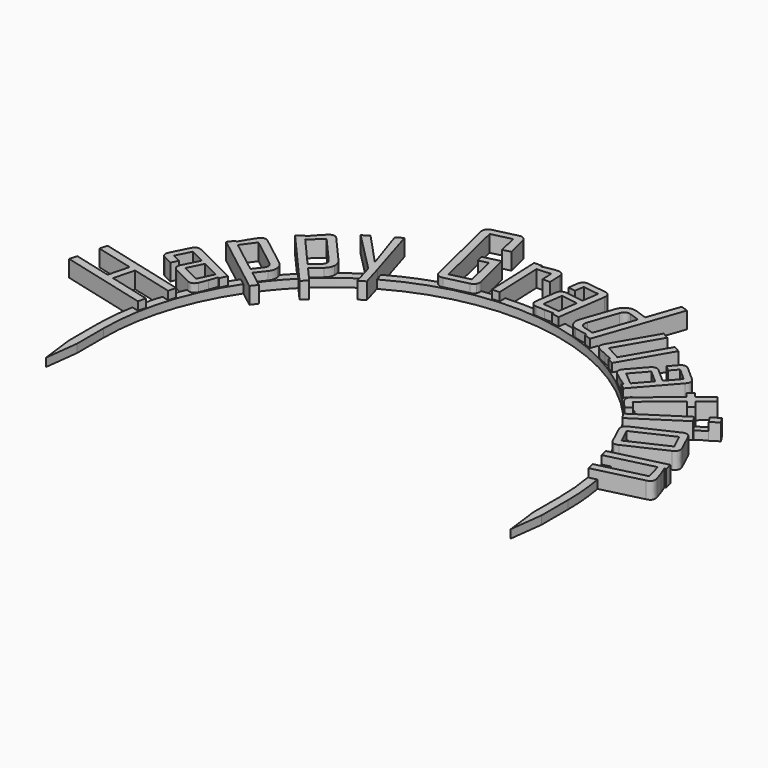
from build123d import *

# Parameters (mm, degrees)
PAD_DEPTH    = 1
PAD001_DEPTH = 2
PAD002_DEPTH = 2


with BuildPart() as part:
    # Sketch001 (on DatumPlane) → Pad (new body)
    with BuildSketch(Plane.XY):
        with BuildLine():
            ThreePointArc((27.5, 0), (0, 27.5), (-27.5, 0))
            Line((-27.5, 0), (-27.5, -4))
            Line((-27.5, -4), (-28, -8))
            Line((-28.5, -4), (-28, -8))
            Line((-28.5, 0), (-28.5, -4))
            ThreePointArc((23.58, 16.007298), (-8.373171, 27.242247), (-28.5, 0))
            Line((23.58, 16.007298), (30.422132, 20.445539))
            Line((30.422132, 20.445539), (30.857492, 19.774375))
            Line((24.020004, 15.339146), (30.857492, 19.774375))
            ThreePointArc((28.5, 0), (27.357084, 7.98999), (24.020004, 15.339146))
            Line((28.5, 0), (28.5, -4))
            Line((28.5, -4), (28, -8))
            Line((27.5, -4), (28, -8))
            Line((27.5, 0), (27.5, -4))
        make_face()
    extrude(amount=PAD_DEPTH)

    # Sketch → Pad001 (join)
    with BuildSketch(Plane(origin=(-105.3, 177.4, 0), x_dir=(1, 0, 0), z_dir=(0, 0, 1))):
        with BuildLine():
            add(Edge.make_bspline(
                [(79.205618, -168.173091), (78.965606, -169.100266)],
                knots=[0, 0, 0.957736, 0.957736], degree=1))
            add(Edge.make_bspline(
                [(78.965606, -169.100266), (73.949527, -167.80177)],
                knots=[0, 0, 5.181422, 5.181422], degree=1))
            add(Edge.make_bspline(
                [(73.949527, -167.80177), (73.298557, -170.316485)],
                knots=[0, 0, 2.597605, 2.597605], degree=1))
            add(Edge.make_bspline(
                [(73.298557, -170.316485), (78.314634, -171.614971)],
                knots=[0, 0, 5.181418, 5.181418], degree=1))
            add(Edge.make_bspline(
                [(78.314634, -171.614971), (78.074621, -172.542145)],
                knots=[0, 0, 0.957736, 0.957736], degree=1))
            add(Edge.make_bspline(
                [(78.074621, -172.542145), (67.635576, -169.83984)],
                knots=[0, 0, 10.783141, 10.783141], degree=1))
            add(Edge.make_bspline(
                [(67.635576, -169.83984), (67.875589, -168.912666)],
                knots=[0, 0, 0.957736, 0.957736], degree=1))
            add(Edge.make_bspline(
                [(67.875589, -168.912666), (72.464767, -170.100644)],
                knots=[0, 0, 4.740448, 4.740448], degree=1))
            add(Edge.make_bspline(
                [(72.464767, -170.100644), (73.115738, -167.585939)],
                knots=[0, 0, 2.597596, 2.597596], degree=1))
            add(Edge.make_bspline(
                [(73.115738, -167.585939), (68.52656, -166.397961)],
                knots=[0, 0, 4.740448, 4.740448], degree=1))
            add(Edge.make_bspline(
                [(68.52656, -166.397961), (68.766574, -165.470786)],
                knots=[0, 0, 0.957736, 0.957736], degree=1))
            add(Edge.make_bspline(
                [(68.766574, -165.470786), (79.205618, -168.173091)],
                knots=[0, 0, 10.78314, 10.78314], degree=1))
        make_face()
        with BuildLine():
            add(Edge.make_bspline(
                [(81.504501, -163.2752), (81.100804, -164.082503)],
                knots=[0, 0, 0.902612, 0.902612], degree=1))
            add(Edge.make_bspline(
                [(81.100804, -164.082503), (80.934409, -163.999254)],
                knots=[0, 0, 0.186059, 0.186059], degree=1))
            add(Edge.make_bspline(
                [(80.934409, -163.999254), (80.758748, -164.520008), (80.576924, -165.037664)],
                knots=[0, 0, 0, 1, 1, 1], degree=2))
            add(Edge.make_bspline(
                [(80.576924, -165.037664), (80.348874, -165.678582), (80.167056, -166.042184)],
                knots=[0, 0, 0, 1, 1, 1], degree=2))
            add(Edge.make_bspline(
                [(80.167056, -166.042184), (79.831157, -166.713909), (79.165592, -166.381091)],
                knots=[0, 0, 0, 1, 1, 1], degree=2))
            add(Edge.make_bspline(
                [(79.165592, -166.381091), (76.977856, -165.287108)],
                knots=[0, 0, 2.446015, 2.446015], degree=1))
            add(Edge.make_bspline(
                [(76.977856, -165.287108), (76.287641, -164.941958), (76.635867, -164.245583)],
                knots=[0, 0, 0, 1, 1, 1], degree=2))
            add(Edge.make_bspline(
                [(76.635867, -164.245583), (77.600424, -162.316676)],
                knots=[0, 0, 2.156629, 2.156629], degree=1))
            add(Edge.make_bspline(
                [(77.600424, -162.316676), (75.794771, -161.413756)],
                knots=[0, 0, 2.018822, 2.018822], degree=1))
            add(Edge.make_bspline(
                [(75.794771, -161.413756), (74.913419, -163.176266)],
                knots=[0, 0, 1.97059, 1.97059], degree=1))
            add(Edge.make_bspline(
                [(74.913419, -163.176266), (75.936417, -163.687824)],
                knots=[0, 0, 1.143773, 1.143773], degree=1))
            add(Edge.make_bspline(
                [(75.936417, -163.687824), (75.538884, -164.482802)],
                knots=[0, 0, 0.888832, 0.888832], degree=1))
            add(Edge.make_bspline(
                [(75.538884, -164.482802), (74.528211, -163.97741)],
                knots=[0, 0, 1.129991, 1.129991], degree=1))
            add(Edge.make_bspline(
                [(74.528211, -163.97741), (73.831833, -163.629182), (74.176979, -162.938964)],
                knots=[0, 0, 0, 1, 1, 1], degree=2))
            add(Edge.make_bspline(
                [(74.176979, -162.938964), (75.163106, -160.966924)],
                knots=[0, 0, 2.204856, 2.204856], degree=1))
            add(Edge.make_bspline(
                [(75.163106, -160.966924), (75.508251, -160.276707), (76.204629, -160.624935)],
                knots=[0, 0, 0, 1, 1, 1], degree=2))
            add(Edge.make_bspline(
                [(76.204629, -160.624935), (81.504501, -163.2752)],
                knots=[0, 0, 5.925584, 5.925584], degree=1))
        make_face()
        with BuildLine():
            add(Edge.make_bspline(
                [(80.361288, -163.697295), (78.241341, -162.637211)],
                knots=[0, 0, 2.370222, 2.370222], degree=1))
            add(Edge.make_bspline(
                [(78.241341, -162.637211), (77.326091, -164.467515)],
                knots=[0, 0, 2.046386, 2.046386], degree=1))
            add(Edge.make_bspline(
                [(77.326091, -164.467515), (79.483013, -165.546088)],
                knots=[0, 0, 2.411563, 2.411563], degree=1))
            add(Edge.make_bspline(
                [(79.483013, -165.546088), (80.361288, -163.697295)],
                knots=[0, 0, 2.046803, 2.046803], degree=1))
        make_face(mode=Mode.SUBTRACT)
        with BuildLine():
            add(Edge.make_bspline(
                [(83.522183, -158.066009), (84.012992, -158.445031), (84.091732, -159.019452)],
                knots=[0, 0, 0, 1, 1, 1], degree=2))
            add(Edge.make_bspline(
                [(84.091732, -159.019452), (84.165022, -159.589672), (83.790218, -160.075027)],
                knots=[0, 0, 0, 1, 1, 1], degree=2))
            add(Edge.make_bspline(
                [(83.790218, -160.075027), (82.86795, -161.269331)],
                knots=[0, 0, 1.508953, 1.508953], degree=1))
            add(Edge.make_bspline(
                [(82.86795, -161.269331), (84.880266, -162.823288)],
                knots=[0, 0, 2.542479, 2.542479], degree=1))
            add(Edge.make_bspline(
                [(84.880266, -162.823288), (84.320167, -163.548595)],
                knots=[0, 0, 0.916396, 0.916396], degree=1))
            add(Edge.make_bspline(
                [(84.320167, -163.548595), (77.001665, -157.897073)],
                knots=[0, 0, 9.24663, 9.24663], degree=1))
            add(Edge.make_bspline(
                [(77.001665, -157.897073), (77.561763, -157.171766)],
                knots=[0, 0, 0.916395, 0.916395], degree=1))
            add(Edge.make_bspline(
                [(77.561763, -157.171766), (77.709006, -157.285473)],
                knots=[0, 0, 0.186038, 0.186038], degree=1))
            add(Edge.make_bspline(
                [(77.709006, -157.285473), (77.987163, -156.81254), (78.265318, -156.339607)],
                knots=[0, 0, 0, 1, 1, 1], degree=2))
            add(Edge.make_bspline(
                [(78.265318, -156.339607), (78.61555, -155.739509), (78.855592, -155.428667)],
                knots=[0, 0, 0, 1, 1, 1], degree=2))
            add(Edge.make_bspline(
                [(78.855592, -155.428667), (79.323043, -154.823341), (79.917464, -155.282343)],
                knots=[0, 0, 0, 1, 1, 1], degree=2))
            add(Edge.make_bspline(
                [(79.917464, -155.282343), (83.522183, -158.066009)],
                knots=[0, 0, 4.554425, 4.554425], degree=1))
        make_face()
        with BuildLine():
            add(Edge.make_bspline(
                [(82.853016, -158.707095), (79.444622, -156.075046)],
                knots=[0, 0, 4.306371, 4.306371], degree=1))
            add(Edge.make_bspline(
                [(79.444622, -156.075046), (78.254349, -157.706596)],
                knots=[0, 0, 2.01958, 2.01958], degree=1))
            add(Edge.make_bspline(
                [(78.254349, -157.706596), (82.229899, -160.776611)],
                knots=[0, 0, 5.022947, 5.022947], degree=1))
            add(Edge.make_bspline(
                [(82.229899, -160.776611), (83.004772, -159.773177)],
                knots=[0, 0, 1.267796, 1.267796], degree=1))
            add(Edge.make_bspline(
                [(83.004772, -159.773177), (83.4638, -159.17876), (82.853019, -158.707095)],
                knots=[0, 0, 0, 1, 1, 1], degree=2))
            add(Edge.make_bspline(
                [(82.853019, -158.707095), (82.853016, -158.707095)],
                knots=[0, 0, 3e-06, 3e-06], degree=1))
        make_face(mode=Mode.SUBTRACT)
        with BuildLine():
            add(Edge.make_bspline(
                [(87.621662, -154.249377), (88.030668, -154.715484), (87.997779, -155.294355)],
                knots=[0, 0, 0, 1, 1, 1], degree=2))
            add(Edge.make_bspline(
                [(87.997779, -155.294355), (87.960343, -155.868036), (87.499413, -156.272504)],
                knots=[0, 0, 0, 1, 1, 1], degree=2))
            add(Edge.make_bspline(
                [(87.499413, -156.272504), (86.365211, -157.267745)],
                knots=[0, 0, 1.508946, 1.508946], degree=1))
            add(Edge.make_bspline(
                [(86.365211, -157.267745), (88.042138, -159.178804)],
                knots=[0, 0, 2.542485, 2.542485], degree=1))
            add(Edge.make_bspline(
                [(88.042138, -159.178804), (87.35333, -159.783217)],
                knots=[0, 0, 0.91639, 0.91639], degree=1))
            add(Edge.make_bspline(
                [(87.35333, -159.783217), (81.254592, -152.833006)],
                knots=[0, 0, 9.246623, 9.246623], degree=1))
            add(Edge.make_bspline(
                [(81.254592, -152.833006), (81.943399, -152.228583)],
                knots=[0, 0, 0.916396, 0.916396], degree=1))
            add(Edge.make_bspline(
                [(81.943399, -152.228583), (82.066101, -152.368412)],
                knots=[0, 0, 0.186032, 0.186032], degree=1))
            add(Edge.make_bspline(
                [(82.066101, -152.368412), (82.429797, -151.95761), (82.793492, -151.546798)],
                knots=[0, 0, 0, 1, 1, 1], degree=2))
            add(Edge.make_bspline(
                [(82.793492, -151.546798), (83.252314, -151.025019), (83.547517, -150.765989)],
                knots=[0, 0, 0, 1, 1, 1], degree=2))
            add(Edge.make_bspline(
                [(83.547517, -150.765989), (84.122387, -150.261549), (84.617738, -150.826056)],
                knots=[0, 0, 0, 1, 1, 1], degree=2))
            add(Edge.make_bspline(
                [(84.617738, -150.826056), (87.621662, -154.249377)],
                knots=[0, 0, 4.554414, 4.554414], degree=1))
        make_face()
        with BuildLine():
            add(Edge.make_bspline(
                [(86.841965, -154.75021), (84.001643, -151.513338)],
                knots=[0, 0, 4.306363, 4.306363], degree=1))
            add(Edge.make_bspline(
                [(84.001643, -151.513338), (82.520552, -152.886319)],
                knots=[0, 0, 2.019581, 2.019581], degree=1))
            add(Edge.make_bspline(
                [(82.520552, -152.886319), (85.833504, -156.661808)],
                knots=[0, 0, 5.022944, 5.022944], degree=1))
            add(Edge.make_bspline(
                [(85.833504, -156.661808), (86.786439, -155.825614)],
                knots=[0, 0, 1.267796, 1.267796], degree=1))
            add(Edge.make_bspline(
                [(86.786439, -155.825614), (87.35095, -155.330267), (86.841965, -154.75021)],
                knots=[0, 0, 0, 1, 1, 1], degree=2))
        make_face(mode=Mode.SUBTRACT)
        with BuildLine():
            add(Edge.make_bspline(
                [(89.605663, -146.790632), (91.611702, -153.33165)],
                knots=[0, 0, 6.841718, 6.841718], degree=1))
            add(Edge.make_bspline(
                [(91.611702, -153.33165), (92.362329, -155.906682)],
                knots=[0, 0, 2.682206, 2.682206], degree=1))
            add(Edge.make_bspline(
                [(92.362329, -155.906682), (91.586057, -156.367241)],
                knots=[0, 0, 0.902615, 0.902615], degree=1))
            add(Edge.make_bspline(
                [(91.586057, -156.367241), (90.841356, -153.788695)],
                knots=[0, 0, 2.68393, 2.68393], degree=1))
            add(Edge.make_bspline(
                [(90.841356, -153.788695), (86.026515, -148.914122)],
                knots=[0, 0, 6.851581, 6.851581], degree=1))
            add(Edge.make_bspline(
                [(86.026515, -148.914122), (86.838342, -148.432472)],
                knots=[0, 0, 0.943954, 0.943954], degree=1))
            add(Edge.make_bspline(
                [(86.838342, -148.432472), (90.515051, -152.387981)],
                knots=[0, 0, 5.400392, 5.400392], degree=1))
            add(Edge.make_bspline(
                [(90.515051, -152.387981), (88.81754, -147.258222)],
                knots=[0, 0, 5.40333, 5.40333], degree=1))
            add(Edge.make_bspline(
                [(88.81754, -147.258222), (89.605663, -146.790632)],
                knots=[0, 0, 0.916394, 0.916394], degree=1))
        make_face()
    extrude(amount=PAD001_DEPTH)

    # Sketch002 → Pad002 (join)
    with BuildSketch(Plane(origin=(-105.3, 177.4, 0), x_dir=(1, 0, 0), z_dir=(0, 0, 1))):
        with BuildLine():
            add(Edge.make_bspline(
                [(100.802118, -149.271415), (100.880797, -149.599738), (100.722877, -149.857235)],
                knots=[0, 0, 0, 1, 1, 1], degree=2))
            add(Edge.make_bspline(
                [(100.722877, -149.857235), (100.564956, -150.114732), (100.236633, -150.193421)],
                knots=[0, 0, 0, 1, 1, 1], degree=2))
            add(Edge.make_bspline(
                [(100.236633, -150.193421), (97.482763, -150.853471)],
                knots=[0, 0, 2.831866, 2.831866], degree=1))
            add(Edge.make_bspline(
                [(97.482763, -150.853471), (97.154441, -150.93215), (96.896945, -150.77424)],
                knots=[0, 0, 0, 1, 1, 1], degree=2))
            add(Edge.make_bspline(
                [(96.896945, -150.77424), (96.639447, -150.616309), (96.560755, -150.287986)],
                knots=[0, 0, 0, 1, 1, 1], degree=2))
            add(Edge.make_bspline(
                [(96.560755, -150.287986), (94.403942, -141.289333)],
                knots=[0, 0, 9.253518, 9.253518], degree=1))
            add(Edge.make_bspline(
                [(94.403942, -141.289333), (94.325254, -140.96102), (94.483178, -140.703523)],
                knots=[0, 0, 0, 1, 1, 1], degree=2))
            add(Edge.make_bspline(
                [(94.483178, -140.703523), (94.641106, -140.446016), (94.969426, -140.367327)],
                knots=[0, 0, 0, 1, 1, 1], degree=2))
            add(Edge.make_bspline(
                [(94.969426, -140.367327), (97.7233, -139.707277)],
                knots=[0, 0, 2.831869, 2.831869], degree=1))
            add(Edge.make_bspline(
                [(97.7233, -139.707277), (98.051613, -139.628598), (98.309109, -139.786509)],
                knots=[0, 0, 0, 1, 1, 1], degree=2))
            add(Edge.make_bspline(
                [(98.309109, -139.786509), (98.566616, -139.944439), (98.645306, -140.272762)],
                knots=[0, 0, 0, 1, 1, 1], degree=2))
            add(Edge.make_bspline(
                [(98.645306, -140.272762), (99.229872, -142.711713)],
                knots=[0, 0, 2.508027, 2.508027], degree=1))
            add(Edge.make_bspline(
                [(99.229872, -142.711713), (98.291821, -142.936541)],
                knots=[0, 0, 0.964618, 0.964618], degree=1))
            add(Edge.make_bspline(
                [(98.291821, -142.936541), (97.726519, -140.577996)],
                knots=[0, 0, 2.425345, 2.425345], degree=1))
            add(Edge.make_bspline(
                [(97.726519, -140.577996), (95.354572, -141.146513)],
                knots=[0, 0, 2.439129, 2.439129], degree=1))
            add(Edge.make_bspline(
                [(95.354572, -141.146513), (97.472841, -149.984355)],
                knots=[0, 0, 9.088152, 9.088152], degree=1))
            add(Edge.make_bspline(
                [(97.472841, -149.984355), (99.844784, -149.415848)],
                knots=[0, 0, 2.439121, 2.439121], degree=1))
            add(Edge.make_bspline(
                [(99.844784, -149.415848), (98.975964, -145.790919)],
                knots=[0, 0, 3.727594, 3.727594], degree=1))
            add(Edge.make_bspline(
                [(98.975964, -145.790919), (97.856993, -146.059115)],
                knots=[0, 0, 1.150663, 1.150663], degree=1))
            add(Edge.make_bspline(
                [(97.856993, -146.059115), (97.664272, -145.255068)],
                knots=[0, 0, 0.826821, 0.826821], degree=1))
            add(Edge.make_bspline(
                [(97.664272, -145.255068), (99.721302, -144.762034)],
                knots=[0, 0, 2.115292, 2.115292], degree=1))
            add(Edge.make_bspline(
                [(99.721302, -144.762034), (100.802118, -149.271415)],
                knots=[0, 0, 4.637098, 4.637098], degree=1))
        make_face()
        with BuildLine():
            add(Edge.make_bspline(
                [(105.911977, -145.222955), (105.010037, -145.257891)],
                knots=[0, 0, 0.902616, 0.902616], degree=1))
            add(Edge.make_bspline(
                [(105.010037, -145.257891), (104.956452, -143.874003)],
                knots=[0, 0, 1.384925, 1.384925], degree=1))
            add(Edge.make_bspline(
                [(104.956452, -143.874003), (103.271744, -143.994339)],
                knots=[0, 0, 1.689001, 1.689001], degree=1))
            add(Edge.make_bspline(
                [(103.271744, -143.994339), (103.497225, -149.819077)],
                knots=[0, 0, 5.8291, 5.8291], degree=1))
            add(Edge.make_bspline(
                [(103.497225, -149.819077), (102.581514, -149.854561)],
                knots=[0, 0, 0.916399, 0.916399], degree=1))
            add(Edge.make_bspline(
                [(102.581514, -149.854561), (102.32219, -143.155428)],
                knots=[0, 0, 6.70415, 6.70415], degree=1))
            add(Edge.make_bspline(
                [(102.32219, -143.155428), (103.237902, -143.119944)],
                knots=[0, 0, 0.916399, 0.916399], degree=1))
            add(Edge.make_bspline(
                [(103.237902, -143.119944), (103.245387, -143.305816)],
                knots=[0, 0, 0.186022, 0.186022], degree=1))
            add(Edge.make_bspline(
                [(103.245387, -143.305816), (103.69713, -143.219344), (104.155496, -143.125777)],
                knots=[0, 0, 0, 1, 1, 1], degree=2))
            add(Edge.make_bspline(
                [(104.155496, -143.125777), (104.703102, -143.021872), (105.068005, -143.007674)],
                knots=[0, 0, 0, 1, 1, 1], degree=2))
            add(Edge.make_bspline(
                [(105.068005, -143.007674), (105.825363, -142.978382), (105.854409, -143.728826)],
                knots=[0, 0, 0, 1, 1, 1], degree=2))
            add(Edge.make_bspline(
                [(105.854409, -143.728826), (105.911977, -145.222955)],
                knots=[0, 0, 1.495237, 1.495237], degree=1))
        make_face()
        with BuildLine():
            add(Edge.make_bspline(
                [(111.009488, -150.317741), (110.115883, -150.190552)],
                knots=[0, 0, 0.902611, 0.902611], degree=1))
            add(Edge.make_bspline(
                [(110.115883, -150.190552), (110.142056, -150.006377)],
                knots=[0, 0, 0.186025, 0.186025], degree=1))
            add(Edge.make_bspline(
                [(110.142056, -150.006377), (109.592481, -150.00468), (109.043886, -149.996218)],
                knots=[0, 0, 0, 1, 1, 1], degree=2))
            add(Edge.make_bspline(
                [(109.043886, -149.996218), (108.363735, -149.982941), (107.961265, -149.925636)],
                knots=[0, 0, 0, 1, 1, 1], degree=2))
            add(Edge.make_bspline(
                [(107.961265, -149.925636), (107.217736, -149.8198), (107.322596, -149.083086)],
                knots=[0, 0, 0, 1, 1, 1], degree=2))
            add(Edge.make_bspline(
                [(107.322596, -149.083086), (107.667282, -146.661478)],
                knots=[0, 0, 2.446016, 2.446016], degree=1))
            add(Edge.make_bspline(
                [(107.667282, -146.661478), (107.776026, -145.897477), (108.546852, -146.007196)],
                knots=[0, 0, 0, 1, 1, 1], degree=2))
            add(Edge.make_bspline(
                [(108.546852, -146.007196), (110.681956, -146.3111)],
                knots=[0, 0, 2.156623, 2.156623], degree=1))
            add(Edge.make_bspline(
                [(110.681956, -146.3111), (110.966449, -144.312423)],
                knots=[0, 0, 2.018823, 2.018823], degree=1))
            add(Edge.make_bspline(
                [(110.966449, -144.312423), (109.015514, -144.034733)],
                knots=[0, 0, 1.970599, 1.970599], degree=1))
            add(Edge.make_bspline(
                [(109.015514, -144.034733), (108.854335, -145.167092)],
                knots=[0, 0, 1.143772, 1.143772], degree=1))
            add(Edge.make_bspline(
                [(108.854335, -145.167092), (107.974368, -145.041836)],
                knots=[0, 0, 0.888836, 0.888836], degree=1))
            add(Edge.make_bspline(
                [(107.974368, -145.041836), (108.133606, -143.923126)],
                knots=[0, 0, 1.129986, 1.129986], degree=1))
            add(Edge.make_bspline(
                [(108.133606, -143.923126), (108.243325, -143.152299), (109.007327, -143.261043)],
                knots=[0, 0, 0, 1, 1, 1], degree=2))
            add(Edge.make_bspline(
                [(109.007327, -143.261043), (111.190181, -143.571749)],
                knots=[0, 0, 2.204857, 2.204857], degree=1))
            add(Edge.make_bspline(
                [(111.190181, -143.571749), (111.954183, -143.680493), (111.844463, -144.451319)],
                knots=[0, 0, 0, 1, 1, 1], degree=2))
            add(Edge.make_bspline(
                [(111.844463, -144.451319), (111.009488, -150.317741)],
                knots=[0, 0, 5.925545, 5.925545], degree=1))
        make_face()
        with BuildLine():
            add(Edge.make_bspline(
                [(110.24701, -149.367103), (110.58102, -147.020523)],
                knots=[0, 0, 2.370232, 2.370232], degree=1))
            add(Edge.make_bspline(
                [(110.58102, -147.020523), (108.555056, -146.732156)],
                knots=[0, 0, 2.046383, 2.046383], degree=1))
            add(Edge.make_bspline(
                [(108.555056, -146.732156), (108.21522, -149.119652)],
                knots=[0, 0, 2.411562, 2.411562], degree=1))
            add(Edge.make_bspline(
                [(108.21522, -149.119652), (110.24701, -149.367103)],
                knots=[0, 0, 2.046803, 2.046803], degree=1))
        make_face(mode=Mode.SUBTRACT)
        with BuildLine():
            add(Edge.make_bspline(
                [(116.080383, -151.916196), (115.220945, -151.618616)],
                knots=[0, 0, 0.909499, 0.909499], degree=1))
            add(Edge.make_bspline(
                [(115.220945, -151.618616), (115.281834, -151.442812)],
                knots=[0, 0, 0.186049, 0.186049], degree=1))
            add(Edge.make_bspline(
                [(115.281834, -151.442812), (113.814104, -151.175238), (113.664353, -151.123394)],
                knots=[0, 0, 0, 1, 1, 1], degree=2))
            add(Edge.make_bspline(
                [(113.664353, -151.123394), (113.110918, -150.93177), (112.900854, -150.443419)],
                knots=[0, 0, 0, 1, 1, 1], degree=2))
            add(Edge.make_bspline(
                [(112.900854, -150.443419), (112.693035, -149.948559), (112.886876, -149.388617)],
                knots=[0, 0, 0, 1, 1, 1], degree=2))
            add(Edge.make_bspline(
                [(112.886876, -149.388617), (114.169623, -145.683883)],
                knots=[0, 0, 3.920522, 3.920522], degree=1))
            add(Edge.make_bspline(
                [(114.169623, -145.683883), (114.372509, -145.097899), (114.889664, -144.846766)],
                knots=[0, 0, 0, 1, 1, 1], degree=2))
            add(Edge.make_bspline(
                [(114.889664, -144.846766), (115.409074, -144.589113), (115.988551, -144.789773)],
                knots=[0, 0, 0, 1, 1, 1], degree=2))
            add(Edge.make_bspline(
                [(115.988551, -144.789773), (117.414454, -145.283479)],
                knots=[0, 0, 1.508955, 1.508955], degree=1))
            add(Edge.make_bspline(
                [(117.414454, -145.283479), (118.749035, -141.428996)],
                knots=[0, 0, 4.078989, 4.078989], degree=1))
            add(Edge.make_bspline(
                [(118.749035, -141.428996), (119.608483, -141.726576)],
                knots=[0, 0, 0.909508, 0.909508], degree=1))
            add(Edge.make_bspline(
                [(119.608483, -141.726576), (116.080383, -151.916196)],
                knots=[0, 0, 10.783129, 10.783129], degree=1))
        make_face()
        with BuildLine():
            add(Edge.make_bspline(
                [(115.493715, -150.83079), (117.150687, -146.045247)],
                knots=[0, 0, 5.064284, 5.064284], degree=1))
            add(Edge.make_bspline(
                [(117.150687, -146.045247), (115.952676, -145.630439)],
                knots=[0, 0, 1.267791, 1.267791], degree=1))
            add(Edge.make_bspline(
                [(115.952676, -145.630439), (115.23647, -145.382458), (114.981719, -146.118195)],
                knots=[0, 0, 0, 1, 1, 1], degree=2))
            add(Edge.make_bspline(
                [(114.981719, -146.118195), (113.809449, -149.503885)],
                knots=[0, 0, 3.582891, 3.582891], degree=1))
            add(Edge.make_bspline(
                [(113.809449, -149.503885), (113.556955, -150.233111), (114.273162, -150.481093)],
                knots=[0, 0, 0, 1, 1, 1], degree=2))
            add(Edge.make_bspline(
                [(114.273162, -150.481093), (114.442444, -150.539717), (115.493715, -150.83079)],
                knots=[0, 0, 0, 1, 1, 1], degree=2))
        make_face(mode=Mode.SUBTRACT)
        with BuildLine():
            add(Edge.make_bspline(
                [(120.7756, -154.483304), (119.996031, -154.028365)],
                knots=[0, 0, 0.902605, 0.902605], degree=1))
            add(Edge.make_bspline(
                [(119.996031, -154.028365), (120.089802, -153.867689)],
                knots=[0, 0, 0.186037, 0.186037], degree=1))
            add(Edge.make_bspline(
                [(120.089802, -153.867689), (119.575517, -153.655317), (119.070668, -153.440462)],
                knots=[0, 0, 0, 1, 1, 1], degree=2))
            add(Edge.make_bspline(
                [(119.070668, -153.440462), (118.457705, -153.178485), (118.082789, -152.959689)],
                knots=[0, 0, 0, 1, 1, 1], degree=2))
            add(Edge.make_bspline(
                [(118.082789, -152.959689), (117.440087, -152.584614), (117.815162, -151.941912)],
                knots=[0, 0, 0, 1, 1, 1], degree=2))
            add(Edge.make_bspline(
                [(117.815162, -151.941912), (120.840043, -146.75864)],
                knots=[0, 0, 6.001351, 6.001351], degree=1))
            add(Edge.make_bspline(
                [(120.840043, -146.75864), (121.619613, -147.213589)],
                knots=[0, 0, 0.902611, 0.902611], degree=1))
            add(Edge.make_bspline(
                [(121.619613, -147.213589), (118.653772, -152.295699)],
                knots=[0, 0, 5.884221, 5.884221], degree=1))
            add(Edge.make_bspline(
                [(118.653772, -152.295699), (120.437081, -153.272594)],
                knots=[0, 0, 2.03335, 2.03335], degree=1))
            add(Edge.make_bspline(
                [(120.437081, -153.272594), (123.375144, -148.238088)],
                knots=[0, 0, 5.829105, 5.829105], degree=1))
            add(Edge.make_bspline(
                [(123.375144, -148.238088), (124.154714, -148.693037)],
                knots=[0, 0, 0.902611, 0.902611], degree=1))
            add(Edge.make_bspline(
                [(124.154714, -148.693037), (120.7756, -154.483304)],
                knots=[0, 0, 6.704148, 6.704148], degree=1))
        make_face()
        with BuildLine():
            add(Edge.make_bspline(
                [(124.837842, -157.87123), (124.160413, -157.274726)],
                knots=[0, 0, 0.902622, 0.902622], degree=1))
            add(Edge.make_bspline(
                [(124.160413, -157.274726), (124.283357, -157.135107)],
                knots=[0, 0, 0.186034, 0.186034], degree=1))
            add(Edge.make_bspline(
                [(124.283357, -157.135107), (123.824751, -156.832271), (123.37069, -156.524268)],
                knots=[0, 0, 0, 1, 1, 1], degree=2))
            add(Edge.make_bspline(
                [(123.37069, -156.524268), (122.809272, -156.140081), (122.504171, -155.871436)],
                knots=[0, 0, 0, 1, 1, 1], degree=2))
            add(Edge.make_bspline(
                [(122.504171, -155.871436), (121.940519, -155.375116), (122.432293, -154.816629)],
                knots=[0, 0, 0, 1, 1, 1], degree=2))
            add(Edge.make_bspline(
                [(122.432293, -154.816629), (124.04875, -152.980856)],
                knots=[0, 0, 2.446016, 2.446016], degree=1))
            add(Edge.make_bspline(
                [(124.04875, -152.980856), (124.558736, -152.401683), (125.143075, -152.916216)],
                knots=[0, 0, 0, 1, 1, 1], degree=2))
            add(Edge.make_bspline(
                [(125.143075, -152.916216), (126.76166, -154.341434)],
                knots=[0, 0, 2.156633, 2.156633], degree=1))
            add(Edge.make_bspline(
                [(126.76166, -154.341434), (128.095805, -152.826272)],
                knots=[0, 0, 2.018826, 2.018826], degree=1))
            add(Edge.make_bspline(
                [(128.095805, -152.826272), (126.616849, -151.523997)],
                knots=[0, 0, 1.970592, 1.970592], degree=1))
            add(Edge.make_bspline(
                [(126.616849, -151.523997), (125.860976, -152.382418)],
                knots=[0, 0, 1.143779, 1.143779], degree=1))
            add(Edge.make_bspline(
                [(125.860976, -152.382418), (125.1939, -151.795024)],
                knots=[0, 0, 0.888831, 0.888831], degree=1))
            add(Edge.make_bspline(
                [(125.1939, -151.795024), (125.940653, -150.946957)],
                knots=[0, 0, 1.129981, 1.129981], degree=1))
            add(Edge.make_bspline(
                [(125.940653, -150.946957), (126.455185, -150.362609), (127.034371, -150.872634)],
                knots=[0, 0, 0, 1, 1, 1], degree=2))
            add(Edge.make_bspline(
                [(127.034371, -150.872634), (128.689143, -152.329733)],
                knots=[0, 0, 2.20486, 2.20486], degree=1))
            add(Edge.make_bspline(
                [(128.689143, -152.329733), (129.268315, -152.83971), (128.753783, -153.424058)],
                knots=[0, 0, 0, 1, 1, 1], degree=2))
            add(Edge.make_bspline(
                [(128.753783, -153.424058), (124.837842, -157.87123)],
                knots=[0, 0, 5.925532, 5.925532], degree=1))
        make_face()
        with BuildLine():
            add(Edge.make_bspline(
                [(124.721744, -156.658123), (126.288109, -154.879233)],
                knots=[0, 0, 2.370221, 2.370221], degree=1))
            add(Edge.make_bspline(
                [(126.288109, -154.879233), (124.75227, -153.526875)],
                knots=[0, 0, 2.04638, 2.04638], degree=1))
            add(Edge.make_bspline(
                [(124.75227, -153.526875), (123.158581, -155.336785)],
                knots=[0, 0, 2.41156, 2.41156], degree=1))
            add(Edge.make_bspline(
                [(123.158581, -155.336785), (124.721744, -156.658123)],
                knots=[0, 0, 2.046806, 2.046806], degree=1))
        make_face(mode=Mode.SUBTRACT)
        with BuildLine():
            add(Edge.make_bspline(
                [(127.367002, -160.865381), (126.539993, -159.859459)],
                knots=[0, 0, 1.302238, 1.302238], degree=1))
            add(Edge.make_bspline(
                [(126.539993, -159.859459), (126.049906, -159.263355), (126.651335, -158.76889)],
                knots=[0, 0, 0, 1, 1, 1], degree=2))
            add(Edge.make_bspline(
                [(126.651335, -158.76889), (130.605853, -155.517724)],
                knots=[0, 0, 5.119404, 5.119404], degree=1))
            add(Edge.make_bspline(
                [(130.605853, -155.517724), (130.093897, -154.895006)],
                knots=[0, 0, 0.806149, 0.806149], degree=1))
            add(Edge.make_bspline(
                [(130.093897, -154.895006), (130.716613, -154.38304)],
                knots=[0, 0, 0.806155, 0.806155], degree=1))
            add(Edge.make_bspline(
                [(130.716613, -154.38304), (131.228569, -155.005758)],
                knots=[0, 0, 0.806149, 0.806149], degree=1))
            add(Edge.make_bspline(
                [(131.228569, -155.005758), (132.841245, -153.679916)],
                knots=[0, 0, 2.087721, 2.087721], degree=1))
            add(Edge.make_bspline(
                [(132.841245, -153.679916), (133.414471, -154.377146)],
                knots=[0, 0, 0.902617, 0.902617], degree=1))
            add(Edge.make_bspline(
                [(133.414471, -154.377146), (131.801795, -155.702988)],
                knots=[0, 0, 2.087721, 2.087721], degree=1))
            add(Edge.make_bspline(
                [(131.801795, -155.702988), (132.545666, -156.607794)],
                knots=[0, 0, 1.171332, 1.171332], degree=1))
            add(Edge.make_bspline(
                [(132.545666, -156.607794), (131.922949, -157.11976)],
                knots=[0, 0, 0.806155, 0.806155], degree=1))
            add(Edge.make_bspline(
                [(131.922949, -157.11976), (131.179078, -156.214953)],
                knots=[0, 0, 1.171332, 1.171332], degree=1))
            add(Edge.make_bspline(
                [(131.179078, -156.214953), (127.245849, -159.448619)],
                knots=[0, 0, 5.091845, 5.091845], degree=1))
            add(Edge.make_bspline(
                [(127.245849, -159.448619), (127.98972, -160.353425)],
                knots=[0, 0, 1.171332, 1.171332], degree=1))
            add(Edge.make_bspline(
                [(127.98972, -160.353425), (127.367002, -160.865381)],
                knots=[0, 0, 0.806149, 0.806149], degree=1))
        make_face()
        with BuildLine():
            add(Edge.make_bspline(
                [(135.397843, -158.188923), (134.889731, -157.409794)],
                knots=[0, 0, 0.930172, 0.930172], degree=1))
            add(Edge.make_bspline(
                [(134.889731, -157.409794), (135.859319, -156.777471)],
                knots=[0, 0, 1.157555, 1.157555], degree=1))
            add(Edge.make_bspline(
                [(135.859319, -156.777471), (136.367431, -157.5566)],
                knots=[0, 0, 0.930172, 0.930172], degree=1))
            add(Edge.make_bspline(
                [(136.367431, -157.5566), (135.397843, -158.188923)],
                knots=[0, 0, 1.157555, 1.157555], degree=1))
        make_face()
        with BuildLine():
            add(Edge.make_bspline(
                [(128.545507, -162.641256), (128.052448, -161.885215)],
                knots=[0, 0, 0.90261, 0.90261], degree=1))
            add(Edge.make_bspline(
                [(128.052448, -161.885215), (133.667966, -158.223027)],
                knots=[0, 0, 6.704152, 6.704152], degree=1))
            add(Edge.make_bspline(
                [(133.667966, -158.223027), (134.161015, -158.979069)],
                knots=[0, 0, 0.902606, 0.902606], degree=1))
            add(Edge.make_bspline(
                [(134.161015, -158.979069), (128.545507, -162.641256)],
                knots=[0, 0, 6.704144, 6.704144], degree=1))
        make_face()
        with BuildLine():
            add(Edge.make_bspline(
                [(131.724843, -167.118048), (131.018901, -167.44646), (130.690499, -166.740517)],
                knots=[0, 0, 0, 1, 1, 1], degree=2))
            add(Edge.make_bspline(
                [(130.690499, -166.740517), (129.719802, -164.653932)],
                knots=[0, 0, 2.301324, 2.301324], degree=1))
            add(Edge.make_bspline(
                [(129.719802, -164.653932), (129.3943, -163.95424), (130.100242, -163.625828)],
                knots=[0, 0, 0, 1, 1, 1], degree=2))
            add(Edge.make_bspline(
                [(130.100242, -163.625828), (134.766948, -161.454851)],
                knots=[0, 0, 5.146969, 5.146969], degree=1))
            add(Edge.make_bspline(
                [(134.766948, -161.454851), (135.47289, -161.126449), (135.798392, -161.826141)],
                knots=[0, 0, 0, 1, 1, 1], degree=2))
            add(Edge.make_bspline(
                [(135.798392, -161.826141), (136.769079, -163.912727)],
                knots=[0, 0, 2.30132, 2.30132], degree=1))
            add(Edge.make_bspline(
                [(136.769079, -163.912727), (137.097491, -164.618668), (136.391549, -164.94707)],
                knots=[0, 0, 0, 1, 1, 1], degree=2))
            add(Edge.make_bspline(
                [(136.391549, -164.94707), (131.724843, -167.118048)],
                knots=[0, 0, 5.146969, 5.146969], degree=1))
        make_face()
        with BuildLine():
            add(Edge.make_bspline(
                [(131.363298, -166.275539), (135.980024, -164.127809)],
                knots=[0, 0, 5.091847, 5.091847], degree=1))
            add(Edge.make_bspline(
                [(135.980024, -164.127809), (135.128494, -162.29737)],
                knots=[0, 0, 2.018814, 2.018814], degree=1))
            add(Edge.make_bspline(
                [(135.128494, -162.29737), (130.511767, -164.44509)],
                knots=[0, 0, 5.091844, 5.091844], degree=1))
            add(Edge.make_bspline(
                [(130.511767, -164.44509), (131.363298, -166.275539)],
                knots=[0, 0, 2.018824, 2.018824], degree=1))
        make_face(mode=Mode.SUBTRACT)
        with BuildLine():
            add(Edge.make_bspline(
                [(132.435857, -172.606979), (132.21741, -171.717004)],
                knots=[0, 0, 0.916392, 0.916392], degree=1))
            add(Edge.make_bspline(
                [(132.21741, -171.717004), (137.932011, -170.314364)],
                knots=[0, 0, 5.884221, 5.884221], degree=1))
            add(Edge.make_bspline(
                [(137.932011, -170.314364), (137.397243, -168.366874)],
                knots=[0, 0, 2.019578, 2.019578], degree=1))
            add(Edge.make_bspline(
                [(137.397243, -168.366874), (131.736175, -169.756376)],
                knots=[0, 0, 5.8291, 5.8291], degree=1))
            add(Edge.make_bspline(
                [(131.736175, -169.756376), (131.517737, -168.866391)],
                knots=[0, 0, 0.916401, 0.916401], degree=1))
            add(Edge.make_bspline(
                [(131.517737, -168.866391), (138.028631, -167.268305)],
                knots=[0, 0, 6.704149, 6.704149], degree=1))
            add(Edge.make_bspline(
                [(138.028631, -167.268305), (138.247068, -168.158281)],
                knots=[0, 0, 0.916391, 0.916391], degree=1))
            add(Edge.make_bspline(
                [(138.247068, -168.158281), (138.066403, -168.20266)],
                knots=[0, 0, 0.186036, 0.186036], degree=1))
            add(Edge.make_bspline(
                [(138.066403, -168.20266), (138.261434, -168.708181), (138.464793, -169.218746)],
                knots=[0, 0, 0, 1, 1, 1], degree=2))
            add(Edge.make_bspline(
                [(138.464793, -169.218746), (138.702756, -169.841422), (138.804594, -170.256299)],
                knots=[0, 0, 0, 1, 1, 1], degree=2))
            add(Edge.make_bspline(
                [(138.804594, -170.256299), (138.986903, -170.99907), (138.257526, -171.178094)],
                knots=[0, 0, 0, 1, 1, 1], degree=2))
            add(Edge.make_bspline(
                [(138.257526, -171.178094), (132.435857, -172.606979)],
                knots=[0, 0, 5.994459, 5.994459], degree=1))
        make_face()
    extrude(amount=PAD002_DEPTH)


solid = part.part
